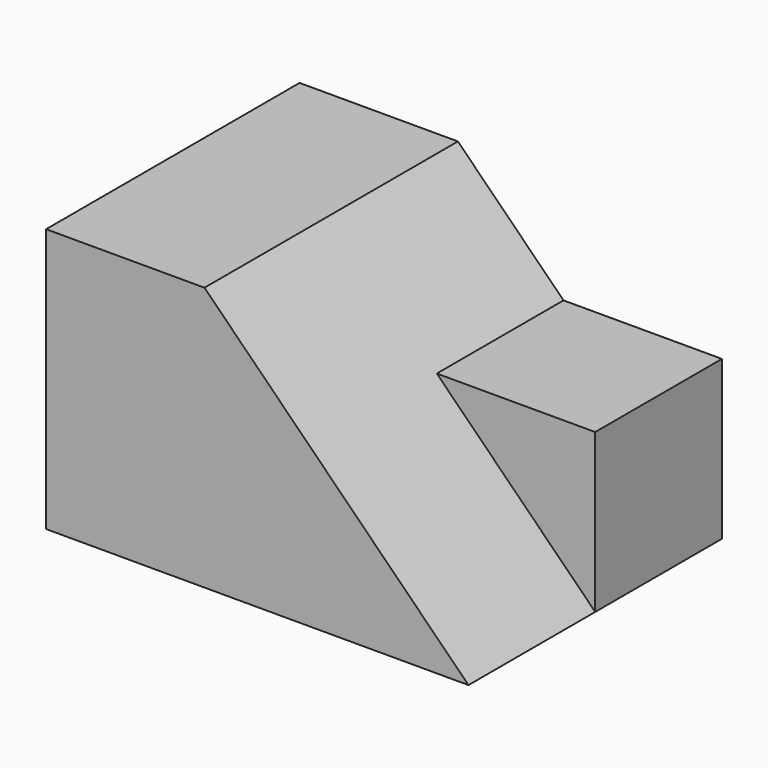
from build123d import *

# Parameters (mm, degrees)
F0_W     = 50.8
F0_H     = 31.75
F1_DEPTH = 38.1
F3_DEPTH = 38.1
F5_DEPTH = 19.05


with BuildPart() as f1:
    # F0 (on Front) → F1 (new body)
    with BuildSketch(Plane.XZ):
        with Locations((25.4, 15.875)):
            Rectangle(F0_W, F0_H)
    extrude(amount=-F1_DEPTH)

    # F2 (on face) → F3 (cut)
    with BuildSketch(Plane.XZ):
        Polygon((19.05, 31.75), (50.8, 0), (50.8, 31.75), align=None)
    extrude(amount=-F3_DEPTH, mode=Mode.SUBTRACT)

    # F4 (on face) → F5 (join)
    with BuildSketch(Plane(origin=(0, 38.1, 0), x_dir=(-1, 0, 0), z_dir=(0, 1, 0))):
        Polygon((-50.8, 19.05), (-50.8, 0), (-31.75, 19.05), align=None)
    extrude(amount=-F5_DEPTH)


solid = f1.part
